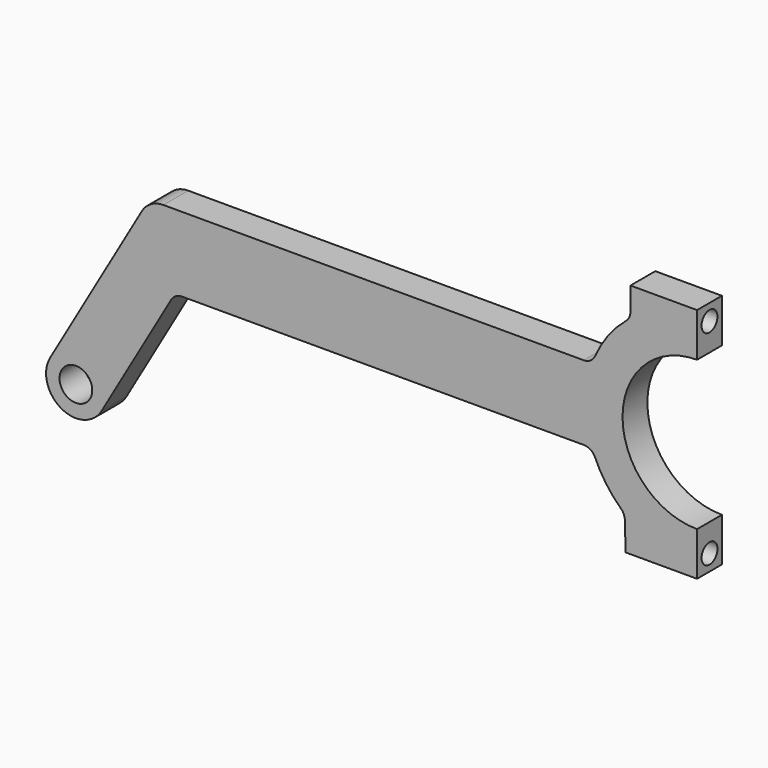
from build123d import *

# Parameters (mm, degrees)
F0_R     = 4.180396
F1_DEPTH = 3.96875
F3_D     = 5.08
F3_DEPTH = 25.4


with BuildPart() as f1:
    # F0 (on Front) → F1 (new body, symmetric)
    with BuildSketch(Plane.XZ):
        with BuildLine():
            ThreePointArc((0, -19.05), (-19.05, 0), (0, 19.05))
            Line((0, 19.05), (0, 30.226))
            Line((0, 30.226), (-17.022172, 30.226))
            Line((-17.022172, 30.226), (-17.022172, 24.332866))
            ThreePointArc((-17.022172, 24.332866), (-17.323239, 22.983372), (-18.169343, 21.889808))
            ThreePointArc((-18.169343, 21.889808), (-22.721865, 17.117405), (-26.05303, 11.4249))
            ThreePointArc((-26.05303, 11.4249), (-27.224045, 10.042081), (-28.960734, 9.525))
            Line((-28.960734, 9.525), (-136.386337, 9.525))
            ThreePointArc((-136.386337, 9.525), (-139.561337, 8.674261), (-141.885599, 6.35))
            Line((-141.885599, 6.35), (-165.349114, -34.29))
            ThreePointArc((-165.349114, -34.29), (-162.56, -44.699114), (-152.150886, -41.91))
            Line((-152.150886, -41.91), (-134.380152, -11.113158))
            ThreePointArc((-134.380152, -11.113158), (-133.217971, -9.950559), (-131.630142, -9.525))
            Line((-131.630142, -9.525), (-28.960734, -9.525))
            ThreePointArc((-28.960734, -9.525), (-27.224045, -10.042081), (-26.05303, -11.4249))
            ThreePointArc((-26.05303, -11.4249), (-23.228214, -16.423725), (-19.457155, -20.753501))
            ThreePointArc((-19.457155, -20.753501), (-18.732119, -21.769599), (-18.4548, -22.986656))
            Line((-18.4548, -22.986656), (-18.265295, -30.226))
            Line((-18.265295, -30.226), (0, -30.226))
            Line((0, -30.226), (0, -19.05))
        make_face()
        with Locations((-158.75, -38.1)):
            Circle(F0_R, mode=Mode.SUBTRACT)
    extrude(amount=F1_DEPTH, both=True)

    # F3
    with Locations(Plane.YZ):
        with Locations((0, 26.12136), (0, -26.12136)):
            Hole(F3_D / 2, depth=F3_DEPTH)


solid = f1.part
